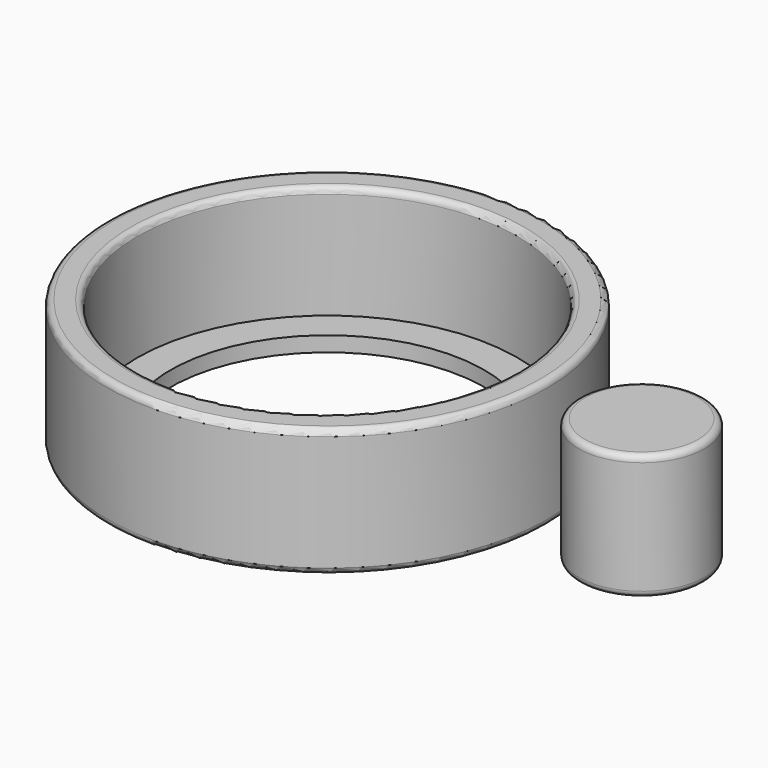
from build123d import *

# Parameters (mm, degrees)
F0_R     = 17.5
F0_R_2   = 12.5
F1_DEPTH = 1.2
F2_R     = 17.5
F2_R_2   = 15.15
F3_DEPTH = 9
F4_R     = 0.5
F5_R     = 5
F6_DEPTH = 10
F7_R     = 0.5


with BuildPart() as f1:
    # F0 (on Top) → F1 (new body)
    with BuildSketch(Plane.XY):
        Circle(F0_R)
        Circle(F0_R_2, mode=Mode.SUBTRACT)
    extrude(amount=F1_DEPTH)

    # F2 (on face) → F3 (join)
    with BuildSketch(Plane.XY.offset(1.2)):
        Circle(F2_R)
        Circle(F2_R_2, mode=Mode.SUBTRACT)
    extrude(amount=F3_DEPTH)

    # F4
    f4_edges = [f1.edges().sort_by_distance(p)[0] for p in [
        (-15.15, 0, 10.2),
        (-17.5, 0, 10.2),
        (-17.5, 0, 0),
    ]]
    fillet(f4_edges, radius=F4_R)


with BuildPart() as f6:
    # F5 (on Top) → F6 (new body)
    with BuildSketch(Plane.XY):
        with Locations((25, 0)):
            Circle(F5_R)
    extrude(amount=F6_DEPTH)

    # F7
    f7_edges = [f6.edges().sort_by_distance(p)[0] for p in [
        (30, 0, 5),
        (20, 0, 0),
        (20, 0, 10),
    ]]
    fillet(f7_edges, radius=F7_R)


solid = Compound([f1.part, f6.part])
